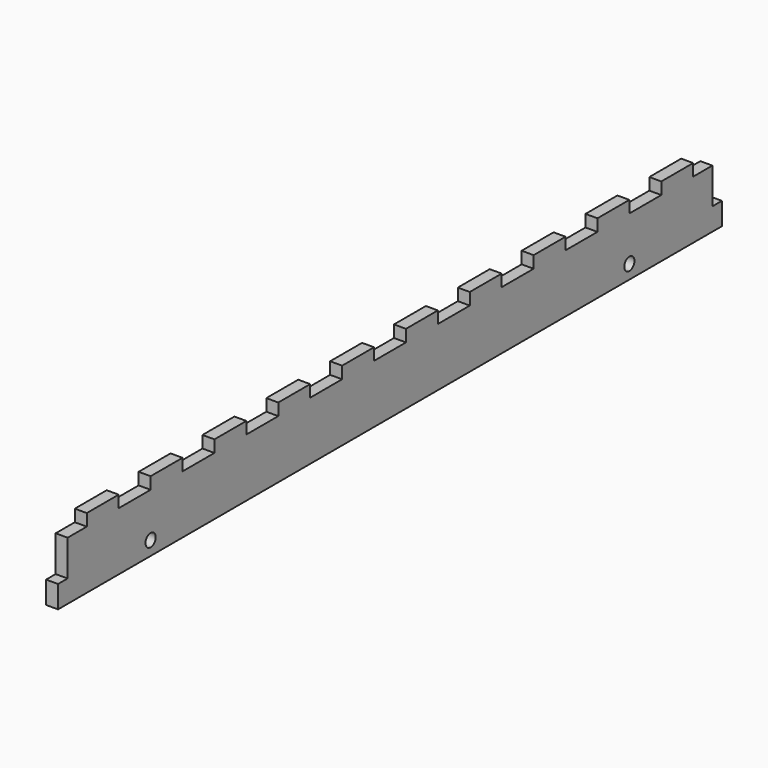
from build123d import *

# Parameters (mm, degrees)
CYLINDER025_R           = 1.6
CYLINDER025_DEPTH       = 10
CYLINDER025_PITCH_ANGLE = 90
CYLINDER024_R           = 1.6
CYLINDER024_DEPTH       = 10
CYLINDER024_PITCH_ANGLE = 90
BOX040_W                = 3
BOX040_H                = 3
BOX040_DEPTH            = 10
BOX039_W                = 3
BOX039_H                = 3
BOX039_DEPTH            = 10
BOX038_W                = 5
BOX038_H                = 10
BOX038_DEPTH            = 3
ARRAY022_Y_COUNT        = 11
ARRAY022_Y_PITCH        = 20
BOX037_W                = 3
BOX037_H                = 208
BOX037_DEPTH            = 17.6


with BuildPart() as cylinder025:
    # Cylinder025 → Cylinder025 (new body)
    with BuildSketch(Plane.XY):
        Circle(CYLINDER025_R)
    extrude(amount=CYLINDER025_DEPTH)


with BuildPart() as cylinder025_1:
    # Cylinder025 pitch: moved
    add(cylinder025.part.rotate(Axis((0, 0, 0), (0, 1, 0)), CYLINDER025_PITCH_ANGLE))


with BuildPart() as cylinder025_2:
    # Cylinder025 placement: moved
    add(cylinder025_1.part.moved(Location((-5, -25, -5.3))))


with BuildPart() as cylinder024:
    # Cylinder024 → Cylinder024 (new body)
    with BuildSketch(Plane.XY):
        Circle(CYLINDER024_R)
    extrude(amount=CYLINDER024_DEPTH)


with BuildPart() as cylinder024_1:
    # Cylinder024 pitch: moved
    add(cylinder024.part.rotate(Axis((0, 0, 0), (0, 1, 0)), CYLINDER024_PITCH_ANGLE))


with BuildPart() as cylinder024_2:
    # Cylinder024 placement: moved
    add(cylinder024_1.part.moved(Location((-5, -175, -5.3))))


with BuildPart() as cube040:
    # Box040 → Box040 (new body)
    with BuildSketch(Plane(origin=(-4, -204, -3.2), x_dir=(1, 0, 0), z_dir=(0, 0, 1))):
        with Locations((1.5, 1.5)):
            Rectangle(BOX040_W, BOX040_H)
    extrude(amount=BOX040_DEPTH)


with BuildPart() as cube039:
    # Box039 → Box039 (new body)
    with BuildSketch(Plane(origin=(-4, 1, -3.2), x_dir=(1, 0, 0), z_dir=(0, 0, 1))):
        with Locations((1.5, 1.5)):
            Rectangle(BOX039_W, BOX039_H)
    extrude(amount=BOX039_DEPTH)


with BuildPart() as array022:
    # Box038 → Box038 (new body)
    with BuildSketch(Plane(origin=(-1, -1, 7), x_dir=(1, 0, 0), z_dir=(0, 0, 1))):
        with Locations((2.5, 5)):
            Rectangle(BOX038_W, BOX038_H)
    extrude(amount=BOX038_DEPTH)

    # Array022 Y: Array022 ×11


with BuildPart() as array022_1:
    add(array022.part)
    with Locations(*[(0, i * ARRAY022_Y_PITCH, 0) for i in range(1, ARRAY022_Y_COUNT)]):
        add(array022.part)


with BuildPart() as sidepanel01:
    # Box037 → Box037 (new body)
    with BuildSketch(Plane.XY.offset(-7.6)):
        with Locations((1.5, 104)):
            Rectangle(BOX037_W, BOX037_H)
    extrude(amount=BOX037_DEPTH)

    # Cut035: cut Array022
    add(array022_1.part, mode=Mode.SUBTRACT)


with BuildPart() as sidepanel01_1:
    # Cut035 placement: moved
    add(sidepanel01.part.moved(Location((-4, -204, -1.2))))

    # Cut036: cut Cube039
    add(cube039.part, mode=Mode.SUBTRACT)

    # Cut037: cut Cube040
    add(cube040.part, mode=Mode.SUBTRACT)

    # Cut050: cut Cylinder024
    add(cylinder024_2.part, mode=Mode.SUBTRACT)

    # Cut051: cut Cylinder025
    add(cylinder025_2.part, mode=Mode.SUBTRACT)


solid = sidepanel01_1.part
